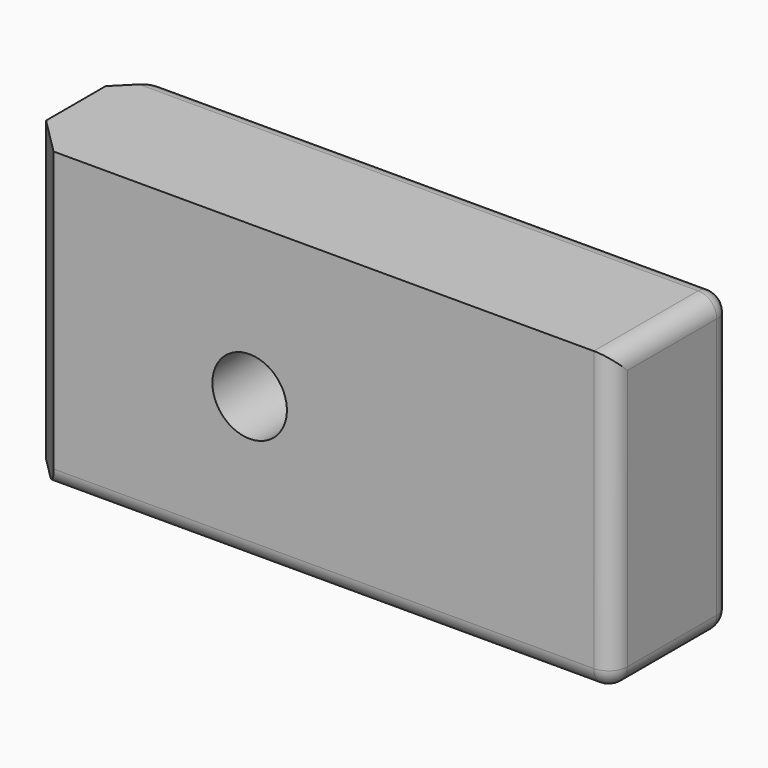
from build123d import *

# Parameters (mm, degrees)
F0_W     = 800
F0_H     = 400
F1_DEPTH = 200
F2_SIZE  = 50
F3_R     = 25
F4_R     = 25
F5_R     = 25
F7_D     = 100


with BuildPart() as f1:
    # F0 (on Front) → F1 (new body)
    with BuildSketch(Plane.XZ):
        Rectangle(F0_W, F0_H)
    extrude(amount=F1_DEPTH)

    # F2
    f2_edges = [f1.edges().sort_by_distance(p)[0] for p in [
        (-400, -200, 0),
        (-400, 0, 0),
    ]]
    chamfer(f2_edges, length=F2_SIZE)

    # F3
    f3_edges = [f1.edges().sort_by_distance(p)[0] for p in [
        (400, -100, -200),
    ]]
    fillet(f3_edges, radius=F3_R)

    # F4
    f4_edges = [f1.edges().sort_by_distance(p)[0] for p in [
        (400, -100, 200),
        (400, -200, 12.5),
    ]]
    fillet(f4_edges, radius=F4_R)

    # F5
    f5_edges = [f1.edges().sort_by_distance(p)[0] for p in [
        (400, 0, 0),
    ]]
    fillet(f5_edges, radius=F5_R)

    # F7 (through all)
    with Locations(Plane.XZ.offset(200)):
        with Locations((-86.828791, -3.877041)):
            Hole(F7_D / 2)


solid = f1.part
